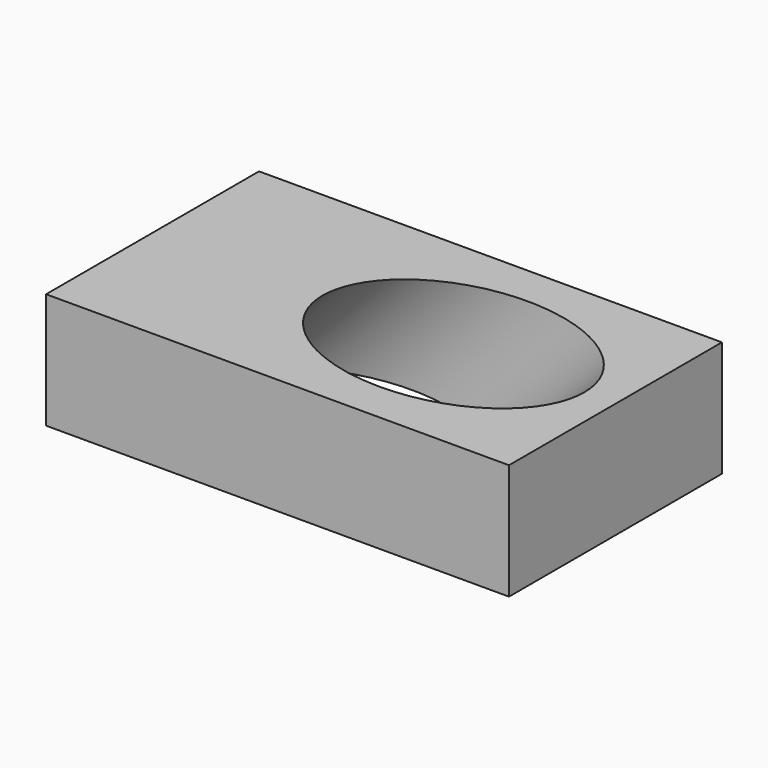
from build123d import *

# Parameters (mm, degrees)
F0_W     = 80
F0_H     = 46
F1_DEPTH = 20
F4_R     = 16
F5_DEPTH = 70.711678


with BuildPart() as f1:
    # F0 (on Top) → F1 (new body)
    with BuildSketch(Plane.XY):
        with Locations((0, 23)):
            Rectangle(F0_W, F0_H)
    extrude(amount=F1_DEPTH)

    # F4 (on face) → F5 (cut, through all)
    with BuildSketch(Plane(origin=(30, 0, 30), x_dir=(0.707107, 0, -0.707107), z_dir=(-0.707107, 0, -0.707107))):
        with Locations((-5.656854, -23)):
            Circle(F4_R)
    extrude(amount=F5_DEPTH, mode=Mode.SUBTRACT)


solid = f1.part
